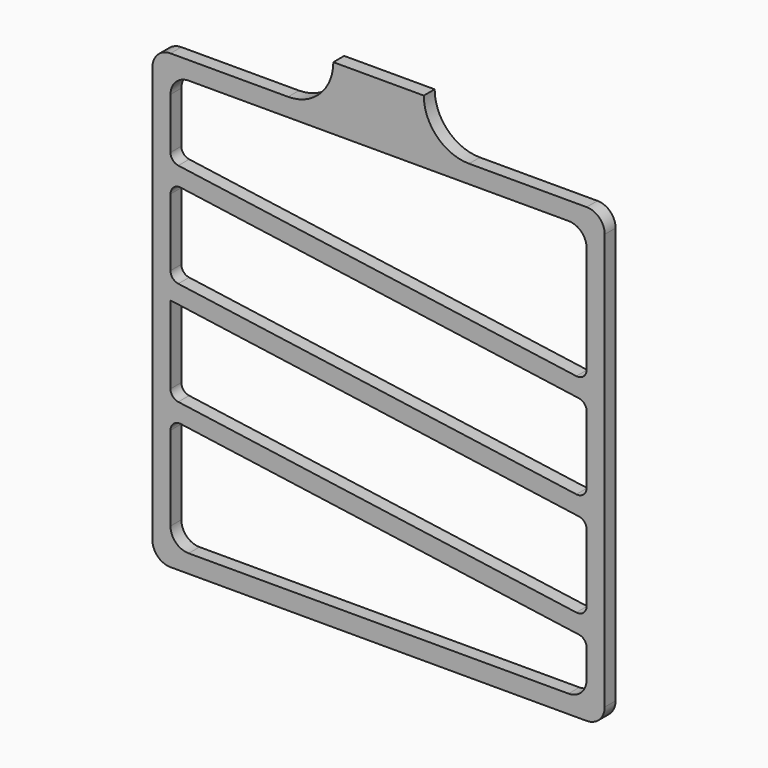
from build123d import *

# Parameters (mm, degrees)
F1_DEPTH = 3


with BuildPart() as f1:
    # F0 (on Front) → F1 (new body)
    with BuildSketch(Plane.XZ):
        with BuildLine():
            ThreePointArc((0, 4), (1.171573, 1.171573), (4, 0))
            Line((4, 0), (96, 0))
            ThreePointArc((96, 0), (98.828427, 1.171573), (100, 4))
            Line((100, 4), (100, 96))
            ThreePointArc((100, 96), (98.828427, 98.828427), (96, 100))
            Line((96, 100), (70, 100))
            ThreePointArc((70, 100), (62.928932, 102.928932), (60, 110))
            Line((60, 110), (40, 110))
            ThreePointArc((40, 110), (37.071068, 102.928932), (30, 100))
            Line((30, 100), (4, 100))
            ThreePointArc((4, 100), (1.171573, 98.828427), (0, 96))
            Line((0, 96), (0, 4))
        make_face()
        with BuildLine():
            Line((92, 4), (8, 4))
            ThreePointArc((8, 4), (5.171573, 5.171573), (4, 8))
            Line((4, 8), (4, 26.62902))
            ThreePointArc((4, 26.62902), (4.687882, 28.138439), (6.278346, 28.609556))
            Line((6.278346, 28.609556), (94.278346, 16.241963))
            ThreePointArc((94.278346, 16.241963), (95.509419, 15.573545), (96, 14.261427))
            Line((96, 14.261427), (96, 8))
            ThreePointArc((96, 8), (94.828427, 5.171573), (92, 4))
        make_face(mode=Mode.SUBTRACT)
        with BuildLine():
            Line((93.721654, 20.359511), (5.721654, 32.727104))
            ThreePointArc((5.721654, 32.727104), (4.490581, 33.395523), (4, 34.707641))
            Line((4, 34.707641), (4, 51.929757))
            Line((4, 51.929757), (94.278346, 39.241963))
            ThreePointArc((94.278346, 39.241963), (95.509419, 38.573545), (96, 37.261427))
            Line((96, 37.261427), (96, 22.340047))
            ThreePointArc((96, 22.340047), (95.312118, 20.830628), (93.721654, 20.359511))
        make_face(mode=Mode.SUBTRACT)
        with BuildLine():
            Line((93.721654, 43.359511), (5.721654, 55.727104))
            ThreePointArc((5.721654, 55.727104), (4.490581, 56.395523), (4, 57.707641))
            Line((4, 57.707641), (4, 72.62902))
            ThreePointArc((4, 72.62902), (4.687882, 74.138439), (6.278346, 74.609556))
            Line((6.278346, 74.609556), (94.278346, 62.241963))
            ThreePointArc((94.278346, 62.241963), (95.509419, 61.573545), (96, 60.261427))
            Line((96, 60.261427), (96, 45.340047))
            ThreePointArc((96, 45.340047), (95.312118, 43.830628), (93.721654, 43.359511))
        make_face(mode=Mode.SUBTRACT)
        with BuildLine():
            ThreePointArc((4, 92), (5.171573, 94.828427), (8, 96))
            Line((8, 96), (92, 96))
            ThreePointArc((92, 96), (94.828427, 94.828427), (96, 92))
            Line((96, 92), (96, 68.340047))
            ThreePointArc((96, 68.340047), (95.312118, 66.830628), (93.721654, 66.359511))
            Line((93.721654, 66.359511), (5.721654, 78.727104))
            ThreePointArc((5.721654, 78.727104), (4.490581, 79.395523), (4, 80.707641))
            Line((4, 80.707641), (4, 92))
        make_face(mode=Mode.SUBTRACT)
    extrude(amount=F1_DEPTH)


solid = f1.part
